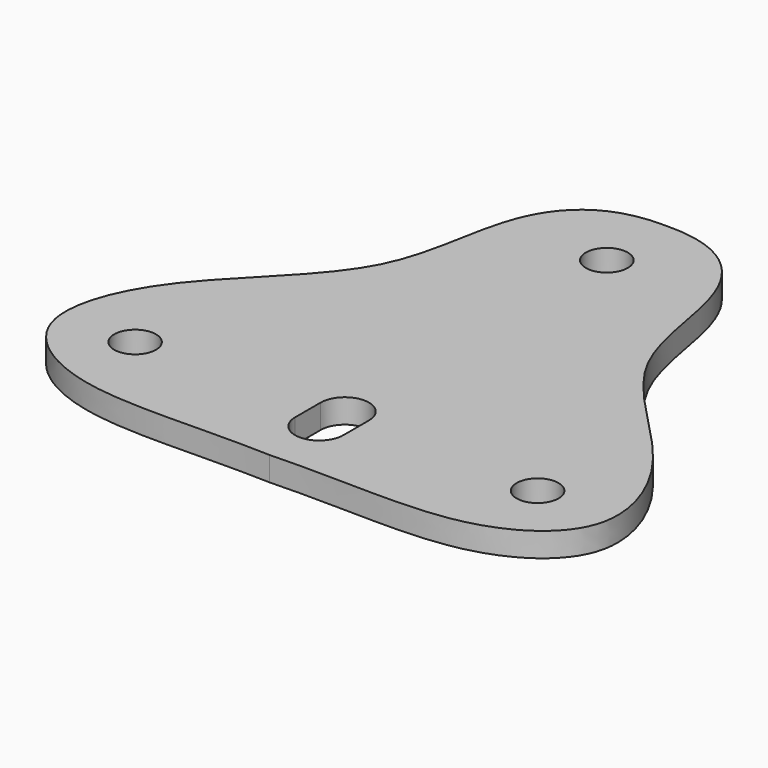
from build123d import *

# Parameters (mm, degrees)
F0_R     = 2.6
F1_DEPTH = 3


with BuildPart() as f1:
    # F0 (on Top) → F1 (new body)
    with BuildSketch(Plane.XY):
        with BuildLine():
            add(Edge.make_bspline(
                [(12.4628519006, 13.6780394241), (19.4407593717, 13.8331027583), (26.7452298575, 6.7324317401), (26.3128940789, -11.5322055726), (43.6181419579, -24.266116276), (49.2919868937, -40.2839782528), (35.8826429609, -49.4228751578), (22.1731135653, -47.6006929448), (12.4628519006, -47.95422405)],
                knots=[0, 0, 0, 0, 0.1549555961, 0.3196507615, 0.5052578789, 0.6577917534, 0.7998356316, 1, 1, 1, 1], degree=3))
            add(Edge.make_bspline(
                [(12.4628519006, 13.6780394241), (5.4849444295, 13.8331027583), (-1.8195260563, 6.7324317401), (-1.3871902777, -11.5322055726), (-18.6924381567, -24.266116276), (-24.3662830925, -40.2839782528), (-10.9569391597, -49.4228751578), (2.7525902359, -47.6006929448), (12.4628519006, -47.95422405)],
                knots=[0, 0, 0, 0, 0.1549555961, 0.3196507615, 0.5052578789, 0.6577917534, 0.7998356316, 1, 1, 1, 1], degree=3))
        make_face()
        with Locations((-12.5371480994, -37.5717511536)):
            Circle(F0_R, mode=Mode.SUBTRACT)
        with BuildLine():
            ThreePointArc((15.4628519006, -40.2326815498), (12.4628519006, -43.2326815498), (9.4628519006, -40.2326815498))
            Line((9.4628519006, -40.2326815498), (9.4628519006, -36.2611748278))
            ThreePointArc((9.4628519006, -36.2611748278), (12.4139314817, -33.2607625412), (15.4628519006, -36.161698401))
            Line((15.4628519006, -36.161698401), (15.4628519006, -40.2326815498))
        make_face(mode=Mode.SUBTRACT)
        with Locations((37.4628519006, -37.5717511536)):
            Circle(F0_R, mode=Mode.SUBTRACT)
        with Locations((12.4628519006, 4.4282488464)):
            Circle(F0_R, mode=Mode.SUBTRACT)
    extrude(amount=F1_DEPTH)


solid = f1.part
